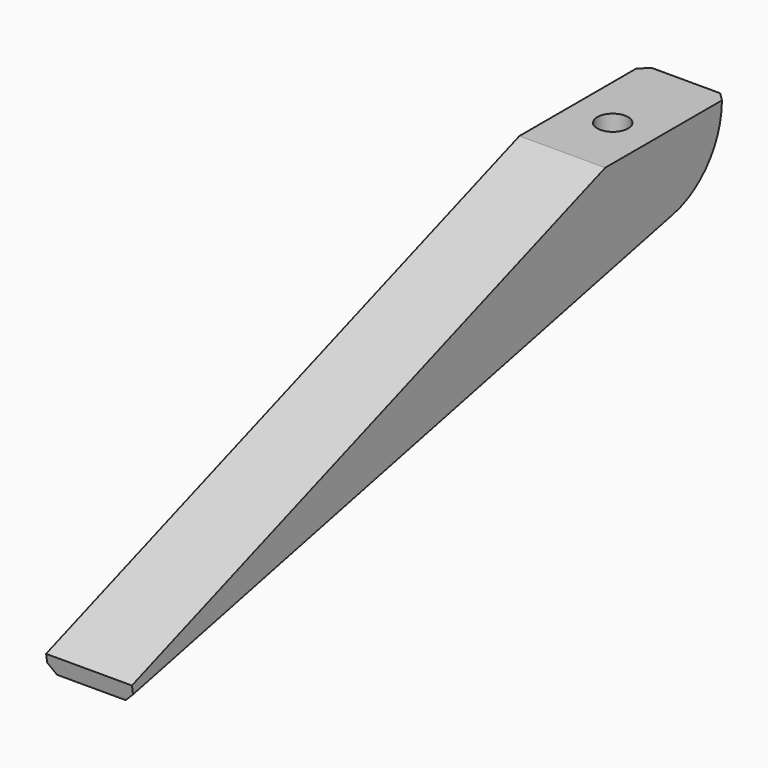
from build123d import *

# Parameters (mm, degrees)
PAD013_DEPTH    = 5
SKETCH029_R     = 1.8
POCKET014_DEPTH = 2
POCKET015_DEPTH = 3.2
SKETCH031_R     = 1.8
POCKET016_DEPTH = 21.859536
CHAMFER004_SIZE = 1


with BuildPart() as part:
    # Sketch028 → Pad013 (new body, symmetric)
    with BuildSketch(Plane.YZ):
        with BuildLine():
            Line((94, -15), (76, -15))
            Line((76, -15), (7.068758, -40.08892))
            Line((7.068758, -40.08892), (7.416055, -42.058536))
            Line((7.416055, -42.058536), (86.145177, -24.767201))
            ThreePointArc((86.145177, -24.767201), (91.792682, -21.266906), (94, -15))
        make_face()
    extrude(amount=PAD013_DEPTH, both=True)

    # Sketch029 (on Face1 of Pad013) → Pocket014 (cut)
    with BuildSketch(Plane(origin=(0, 0, -15), x_dir=(0, -1, 0), z_dir=(0, 0, 1))):
        with Locations((-83.35, 0)):
            Circle(SKETCH029_R)
    extrude(amount=-POCKET014_DEPTH, mode=Mode.SUBTRACT)

    # Sketch030 (on Face9 of Pocket014) → Pocket015 (cut)
    with BuildSketch(Plane(origin=(0, 0, -17), x_dir=(0, -1, 0), z_dir=(0, 0, 1))):
        Polygon((-86.35, 1.732051), (-86.35, -1.732051), (-83.35, -3.464102), (-80.35, -1.732051), (-80.35, 1.732051), (-80.35, 3.464102), (-86.35, 3.464102), align=None)
    extrude(amount=-POCKET015_DEPTH, mode=Mode.SUBTRACT)

    # Sketch031 (on Face15 of Pocket015) → Pocket016 (cut, through all)
    with BuildSketch(Plane(origin=(0, 0, -20.2), x_dir=(0, -1, 0), z_dir=(0, 0, 1))):
        with Locations((-83.35, 0)):
            Circle(SKETCH031_R)
    extrude(amount=-POCKET016_DEPTH, mode=Mode.SUBTRACT)

    # Chamfer004
    chamfer004_edges = [part.edges().sort_by_distance(p)[0] for p in [
        (5, 91.792682, -21.266906),
        (-5, 91.792682, -21.266906),
    ]]
    chamfer(chamfer004_edges, length=CHAMFER004_SIZE)


solid = part.part
